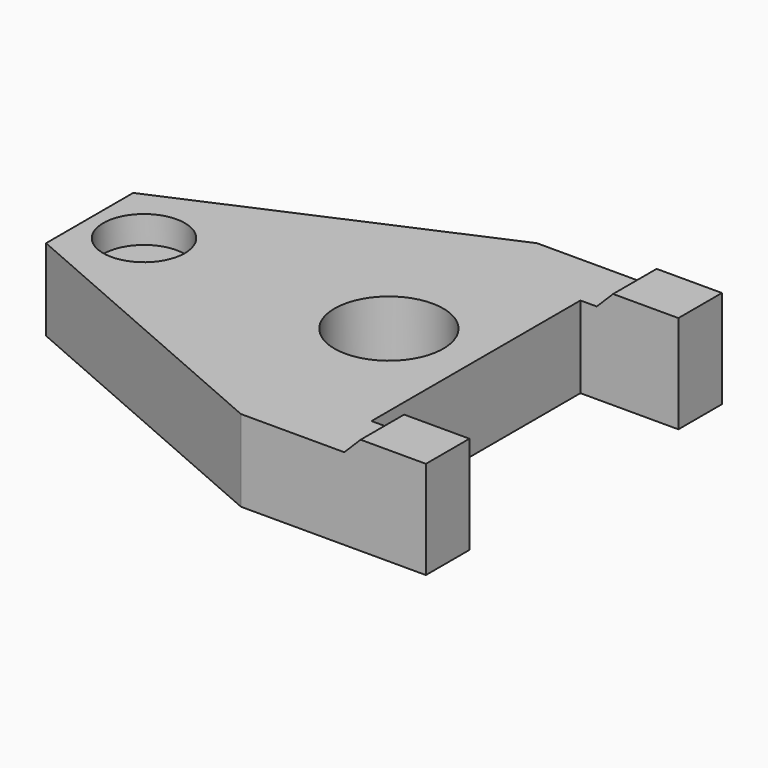
from build123d import *

# Parameters (mm, degrees)
F3_DEPTH = 34
F4_DEPTH = 18.001
F6_D     = 20
F7_R     = 7.5
F8_DEPTH = 5


with BuildPart() as f3:
    # F0 (on Front) → F3 (new body)
    with BuildSketch(Plane.XZ):
        Polygon((-55, 15), (-55, 0), (34, 0), (34, 18), (22, 18), (19, 15), align=None)
    extrude(amount=F3_DEPTH)

    # F1 (on Top) → F4 (intersect, through all)
    with BuildSketch(Plane.XY):
        Polygon((16, 0), (-55, 0), (-55, -10), (0, -34), (34, -34), (34, -24), (16, -24), align=None)
    extrude(amount=F4_DEPTH, mode=Mode.INTERSECT)

    # F5: F3 across plane


with BuildPart() as f3_1:
    add(f3.part)
    add(f3.part.mirror(Plane.XZ))

    # F6 (through all)
    with Locations(Plane(origin=(0, 0, 0), x_dir=(1, 0, 0), z_dir=(0, 0, -1))):
        with Locations((0, 0)):
            Hole(F6_D / 2)

    # F7 (on face) → F8 (cut)
    with BuildSketch(Plane.XY.offset(15)):
        with Locations((-45, 0)):
            Circle(F7_R)
    extrude(amount=-F8_DEPTH, mode=Mode.SUBTRACT)


solid = f3_1.part
